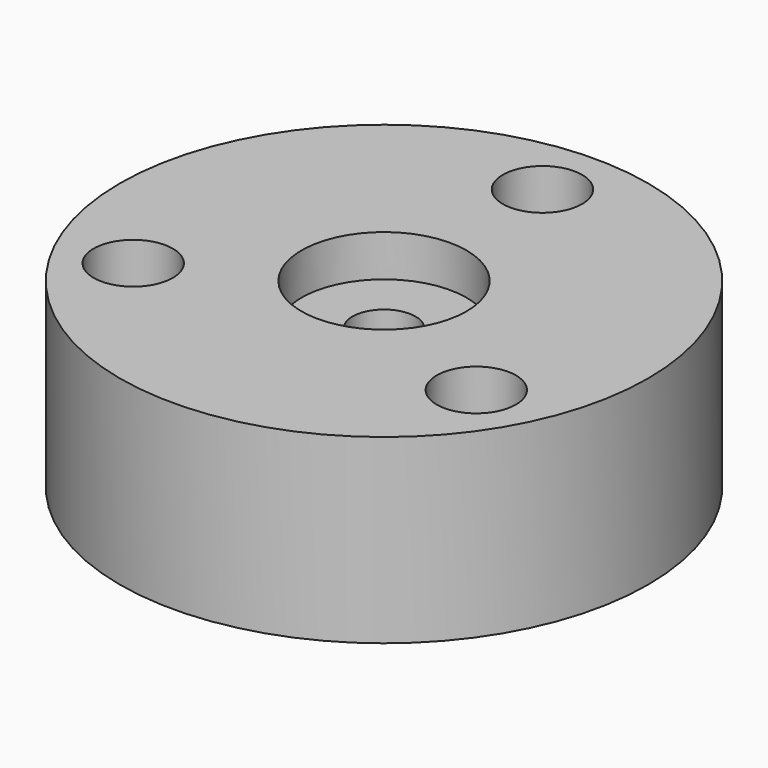
from build123d import *

# Parameters (mm, degrees)
CYLINDER006_R               = 0.35
CYLINDER006_DEPTH           = 3
ARRAY_COUNT                 = 20
CYLINDER005_R               = 0.85
CYLINDER005_DEPTH           = 3.2
CYLINDER002_R               = 2.3
CYLINDER002_DEPTH           = 3.2
FILLET_R                    = 0.3
CYLINDER012_R               = 1.75
CYLINDER012_DEPTH           = 2.5
CYLINDER013_R               = 1.75
CYLINDER013_DEPTH           = 2.5
CYLINDER013_PLACEMENT_ANGLE = 120
CYLINDER014_R               = 1.75
CYLINDER014_DEPTH           = 2.5
CYLINDER014_PLACEMENT_ANGLE = 120
CYLINDER007_R               = 1.2
CYLINDER007_DEPTH           = 10
CYLINDER009_R               = 1.2
CYLINDER009_DEPTH           = 10
CYLINDER009_PLACEMENT_ANGLE = 120
CYLINDER008_R               = 1.2
CYLINDER008_DEPTH           = 10
CYLINDER008_PLACEMENT_ANGLE = 120
CYLINDER010_R               = 2.5
CYLINDER010_DEPTH           = 10
CYLINDER011_R               = 0.955
CYLINDER011_DEPTH           = 10
SCALE_SCALE_SCALE           = 1.05
CYLINDER_R                  = 8
CYLINDER_DEPTH              = 5.5


with BuildPart() as array:
    # Cylinder006 → Cylinder006 (new body)
    with BuildSketch(Plane(origin=(2.51021, 16.5511, 26.9), x_dir=(1, 0, 0), z_dir=(0, 0, 1))):
        Circle(CYLINDER006_R)
    extrude(amount=CYLINDER006_DEPTH)

    # Array: Array ×20 about axis
    array_axis = Axis((0, 16.6, 0), (0, 0, 1))


with BuildPart() as array_1:
    add(array.part)
    for i in range(1, ARRAY_COUNT):
        add(array.part.rotate(array_axis, i * 360 / ARRAY_COUNT))


with BuildPart() as cilindro_exterior:
    # Cylinder005 → Cylinder005 (new body)
    with BuildSketch(Plane(origin=(0, 16.6, 26.7), x_dir=(1, 0, 0), z_dir=(0, 0, 1))):
        Circle(CYLINDER005_R)
    extrude(amount=CYLINDER005_DEPTH)


with BuildPart() as obj1:
    # Cylinder002 → Cylinder002 (new body)
    with BuildSketch(Plane(origin=(0, 16.6, 26.7), x_dir=(1, 0, 0), z_dir=(0, 0, 1))):
        Circle(CYLINDER002_R)
    extrude(amount=CYLINDER002_DEPTH)

    # Cut001: cut Cilindro_exterior
    add(cilindro_exterior.part, mode=Mode.SUBTRACT)

    # Fillet
    fillet_edges = [obj1.edges().sort_by_distance(p)[0] for p in [
        (-2.3, 16.6, 29.9),
    ]]
    fillet(fillet_edges, radius=FILLET_R)

    # Cut002: cut Array
    add(array_1.part, mode=Mode.SUBTRACT)


with BuildPart() as obj1_1:
    # Cut002 placement: moved
    add(obj1.part.moved(Location((0, -16.6, -26.7))))


with BuildPart() as m3_screwhole002_recess:
    # Cylinder012 → Cylinder012 (new body)
    with BuildSketch(Plane(origin=(0, 6, 0), x_dir=(1, 0, 0), z_dir=(0, 0, 1))):
        Circle(CYLINDER012_R)
    extrude(amount=CYLINDER012_DEPTH)


with BuildPart() as m3_screwhole001_recess:
    # Cylinder013 → Cylinder013 (new body)
    with BuildSketch(Plane.XY):
        Circle(CYLINDER013_R)
    extrude(amount=CYLINDER013_DEPTH)


with BuildPart() as m3_screwhole001_recess_1:
    # Cylinder013 placement: moved
    add(m3_screwhole001_recess.part.moved(Location((-5.196152, -3, 0))).rotate(Axis((-5.196152, -3, 0), (0, 0, 1)), CYLINDER013_PLACEMENT_ANGLE))


with BuildPart() as m3_screwhole_recess:
    # Cylinder014 → Cylinder014 (new body)
    with BuildSketch(Plane.XY):
        Circle(CYLINDER014_R)
    extrude(amount=CYLINDER014_DEPTH)


with BuildPart() as m3_screwhole_recess_1:
    # Cylinder014 placement: moved
    add(m3_screwhole_recess.part.moved(Location((5.196152, -3, 0))).rotate(Axis((5.196152, -3, 0), (0, 0, -1)), CYLINDER014_PLACEMENT_ANGLE))


with BuildPart() as m3_screwhole:
    # Cylinder007 → Cylinder007 (new body)
    with BuildSketch(Plane(origin=(0, 6, 0), x_dir=(1, 0, 0), z_dir=(0, 0, 1))):
        Circle(CYLINDER007_R)
    extrude(amount=CYLINDER007_DEPTH)


with BuildPart() as m3_screwhole002:
    # Cylinder009 → Cylinder009 (new body)
    with BuildSketch(Plane.XY):
        Circle(CYLINDER009_R)
    extrude(amount=CYLINDER009_DEPTH)


with BuildPart() as m3_screwhole002_1:
    # Cylinder009 placement: moved
    add(m3_screwhole002.part.moved(Location((5.196152, -3, 0))).rotate(Axis((5.196152, -3, 0), (0, 0, -1)), CYLINDER009_PLACEMENT_ANGLE))


with BuildPart() as m3_screwhole001:
    # Cylinder008 → Cylinder008 (new body)
    with BuildSketch(Plane.XY):
        Circle(CYLINDER008_R)
    extrude(amount=CYLINDER008_DEPTH)


with BuildPart() as m3_screwhole001_1:
    # Cylinder008 placement: moved
    add(m3_screwhole001.part.moved(Location((-5.196152, -3, 0))).rotate(Axis((-5.196152, -3, 0), (0, 0, 1)), CYLINDER008_PLACEMENT_ANGLE))


with BuildPart() as screw_head_recess:
    # Cylinder010 → Cylinder010 (new body)
    with BuildSketch(Plane.XY.offset(4.74)):
        Circle(CYLINDER010_R)
    extrude(amount=CYLINDER010_DEPTH)


with BuildPart() as center_screw:
    # Cylinder011 → Cylinder011 (new body)
    with BuildSketch(Plane.XY):
        Circle(CYLINDER011_R)
    extrude(amount=CYLINDER011_DEPTH)


with BuildPart() as scale:
    # Scale base: copy of obj1
    add(obj1_1.part)


with BuildPart() as scale_1:
    # Scale scale: moved
    add(scale.part.scale(SCALE_SCALE_SCALE).moved(Location((0, 0.83, 1.335))))


with BuildPart() as scale_2:
    # Scale placement: moved
    add(scale_1.part.moved(Location((0, -0.83, -1.335))))


with BuildPart() as obj2:
    # Cylinder → Cylinder (new body)
    with BuildSketch(Plane.XY.offset(0.5)):
        Circle(CYLINDER_R)
    extrude(amount=CYLINDER_DEPTH)

    # Cut: cut Scale
    add(scale_2.part, mode=Mode.SUBTRACT)

    # Cut003: cut center_screw
    add(center_screw.part, mode=Mode.SUBTRACT)

    # Cut004: cut screw_head_recess
    add(screw_head_recess.part, mode=Mode.SUBTRACT)

    # Cut005: cut m3_screwhole001
    add(m3_screwhole001_1.part, mode=Mode.SUBTRACT)

    # Cut006: cut m3_screwhole002
    add(m3_screwhole002_1.part, mode=Mode.SUBTRACT)

    # Cut007: cut m3_screwhole
    add(m3_screwhole.part, mode=Mode.SUBTRACT)

    # Cut008: cut m3_screwhole_recess
    add(m3_screwhole_recess_1.part, mode=Mode.SUBTRACT)

    # Cut009: cut m3_screwhole001_recess
    add(m3_screwhole001_recess_1.part, mode=Mode.SUBTRACT)

    # Cut010: cut m3_screwhole002_recess
    add(m3_screwhole002_recess.part, mode=Mode.SUBTRACT)


solid = Compound([obj1_1.part, obj2.part])
